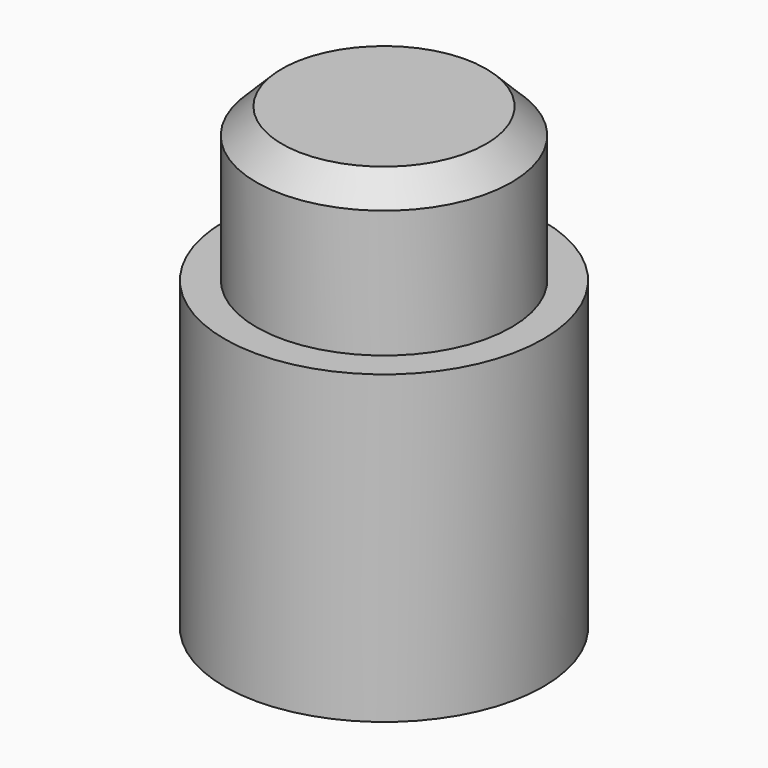
from build123d import *

# Parameters (mm, degrees)
SKETCH001_R  = 6.35
PAD_DEPTH    = 7.62
SKETCH_R     = 7.9375
PAD001_DEPTH = 15.24
CHAMFER_SIZE = 1.27


with BuildPart() as part:
    # Sketch001 → Pad (new body)
    with BuildSketch(Plane.XY):
        Circle(SKETCH001_R)
    extrude(amount=PAD_DEPTH)

    # Sketch → Pad001 (join)
    with BuildSketch(Plane.XY):
        Circle(SKETCH_R)
    extrude(amount=-PAD001_DEPTH)

    # Chamfer
    chamfer_edges = [part.edges().sort_by_distance(p)[0] for p in [
        (-6.35, 0, 7.62),
    ]]
    chamfer(chamfer_edges, length=CHAMFER_SIZE)


solid = part.part
